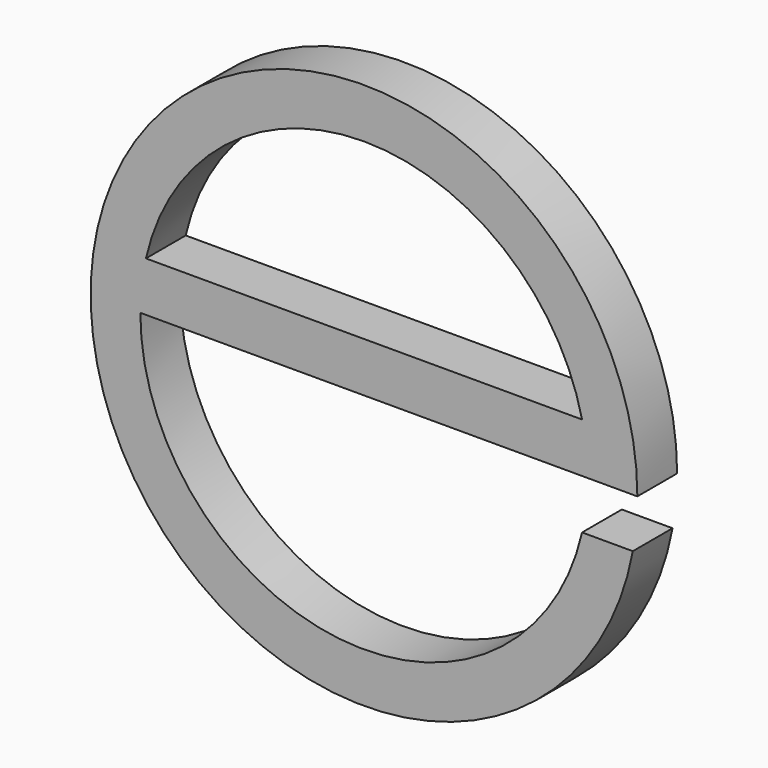
from build123d import *

# Parameters (mm, degrees)
F1_DEPTH = 25.4


with BuildPart() as f1:
    # F0 (on Front) → F1 (new body)
    with BuildSketch(Plane.XZ):
        with BuildLine():
            Line((-114.3, 0), (139.7, 0))
            ThreePointArc((139.7, 0), (-139.116658, 12.753253), (137.371504, -25.4))
            Line((137.371504, -25.4), (111.442048, -25.4))
            ThreePointArc((111.442048, -25.4), (-12.78014, -113.583265), (-114.3, 0))
        make_face()
        with BuildLine():
            ThreePointArc((-111.442048, 25.4), (0, 114.3), (111.442048, 25.4))
            Line((111.442048, 25.4), (-111.442048, 25.4))
        make_face(mode=Mode.SUBTRACT)
    extrude(amount=F1_DEPTH)


solid = f1.part
